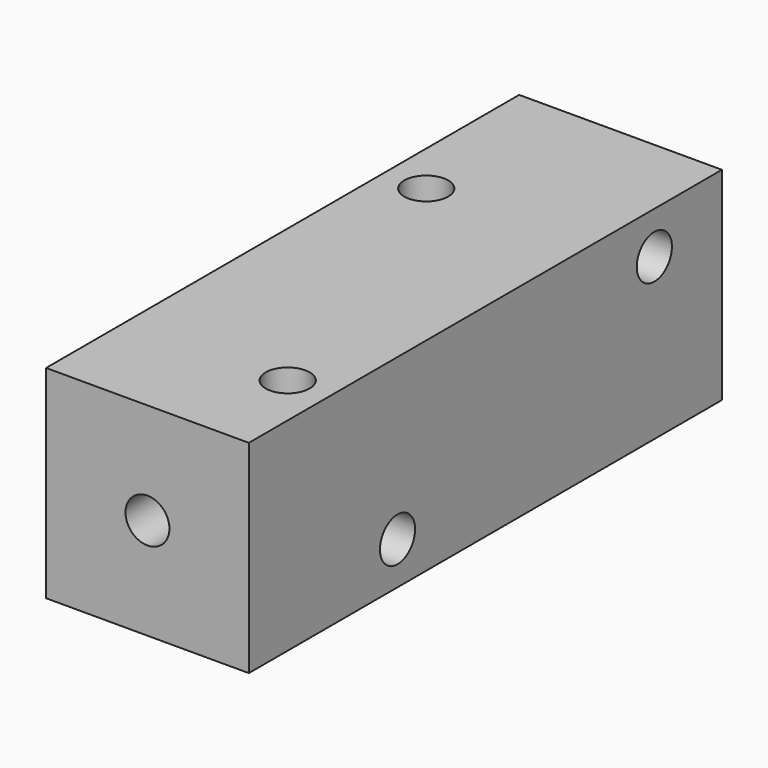
from build123d import *

# Parameters (mm, degrees)
CYLINDER024_R           = 1.3
CYLINDER024_DEPTH       = 40
CYLINDER024_PITCH_ANGLE = 90
CYLINDER023_R           = 1.3
CYLINDER023_DEPTH       = 40
CYLINDER023_PITCH_ANGLE = 90
CYLINDER022_R           = 1.3
CYLINDER022_DEPTH       = 70
CYLINDER022_ROLL_ANGLE  = 90
CYLINDER021_R           = 1.3
CYLINDER021_DEPTH       = 40
CYLINDER020_R           = 1.3
CYLINDER020_DEPTH       = 40
BOX017_W                = 12
BOX017_H                = 35
BOX017_DEPTH            = 12


with BuildPart() as cylinder105:
    # Cylinder024 → Cylinder024 (new body)
    with BuildSketch(Plane.XY):
        Circle(CYLINDER024_R)
    extrude(amount=CYLINDER024_DEPTH)


with BuildPart() as cylinder105_1:
    # Cylinder024 pitch: moved
    add(cylinder105.part.rotate(Axis((0, 0, 0), (0, 1, 0)), CYLINDER024_PITCH_ANGLE))


with BuildPart() as cylinder105_2:
    # Cylinder024 placement: moved
    add(cylinder105_1.part.moved(Location((-40, 12, 9.5))))


with BuildPart() as fusion007:
    # Cylinder023 → Cylinder023 (new body)
    with BuildSketch(Plane.XY):
        Circle(CYLINDER023_R)
    extrude(amount=CYLINDER023_DEPTH)


with BuildPart() as fusion007_1:
    # Cylinder023 pitch: moved
    add(fusion007.part.rotate(Axis((0, 0, 0), (0, 1, 0)), CYLINDER023_PITCH_ANGLE))


with BuildPart() as fusion007_2:
    # Cylinder023 placement: moved
    add(fusion007_1.part.moved(Location((-40, -7, 2.5))))

    # Fusion007: union Cylinder105
    add(cylinder105_2.part)


with BuildPart() as fusion008:
    # Cylinder022 → Cylinder022 (new body)
    with BuildSketch(Plane.XY):
        Circle(CYLINDER022_R)
    extrude(amount=CYLINDER022_DEPTH)


with BuildPart() as fusion008_1:
    # Cylinder022 roll: moved
    add(fusion008.part.rotate(Axis((0, 0, 0), (1, 0, 0)), CYLINDER022_ROLL_ANGLE))


with BuildPart() as fusion008_2:
    # Cylinder022 placement: moved
    add(fusion008_1.part.moved(Location((-24, 39, 6))))

    # Fusion008: union Fusion007
    add(fusion007_2.part)


with BuildPart() as fusion009:
    # Cylinder021 → Cylinder021 (new body)
    with BuildSketch(Plane(origin=(-27.5, 7, -15), x_dir=(1, 0, 0), z_dir=(0, 0, 1))):
        Circle(CYLINDER021_R)
    extrude(amount=CYLINDER021_DEPTH)

    # Fusion009: union Fusion008
    add(fusion008_2.part)


with BuildPart() as corner_block_holes:
    # Cylinder020 → Cylinder020 (new body)
    with BuildSketch(Plane(origin=(-20.5, -12, -15), x_dir=(1, 0, 0), z_dir=(0, 0, 1))):
        Circle(CYLINDER020_R)
    extrude(amount=CYLINDER020_DEPTH)

    # Fusion010: union Fusion009
    add(fusion009.part)


with BuildPart() as corner_block003:
    # Box017 → Box017 (new body)
    with BuildSketch(Plane(origin=(-30, -18, 0), x_dir=(1, 0, 0), z_dir=(0, 0, 1))):
        with Locations((6, 17.5)):
            Rectangle(BOX017_W, BOX017_H)
    extrude(amount=BOX017_DEPTH)

    # Cut011: cut corner-block-holes
    add(corner_block_holes.part, mode=Mode.SUBTRACT)


with BuildPart() as corner_block003_1:
    # Cut011 placement: moved
    add(corner_block003.part.moved(Location((104, 0, 132))))


solid = corner_block003_1.part
